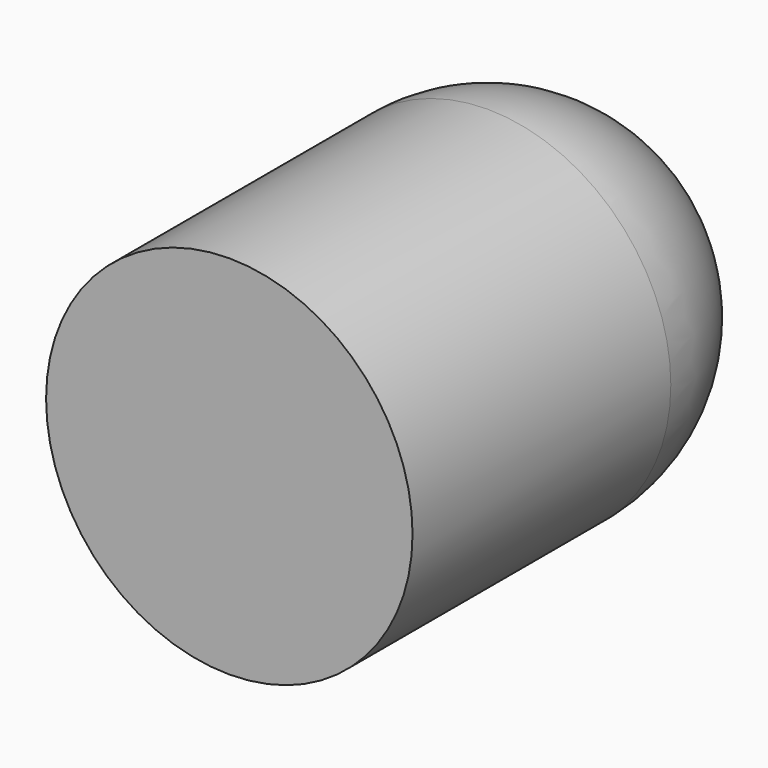
from build123d import *

# Parameters (mm, degrees)
F0_R     = 6.81
F1_DEPTH = 12


with BuildPart() as f1:
    # F0 (on Front) → F1 (new body)
    with BuildSketch(Plane.XZ):
        Circle(F0_R)
    extrude(amount=F1_DEPTH)

    # F2 (on face) → F3 (revolve)
    with BuildSketch(Plane(origin=(0, 0, 0), x_dir=(-1, 0, 0), z_dir=(0, 1, 0))):
        with BuildLine():
            Line((0, -6.81), (0, 6.81))
            ThreePointArc((0, 6.81), (-6.81, 0), (0, -6.81))
        make_face()
    revolve(axis=Axis((0, 0, 0), (0, 0, -1)))


solid = f1.part
